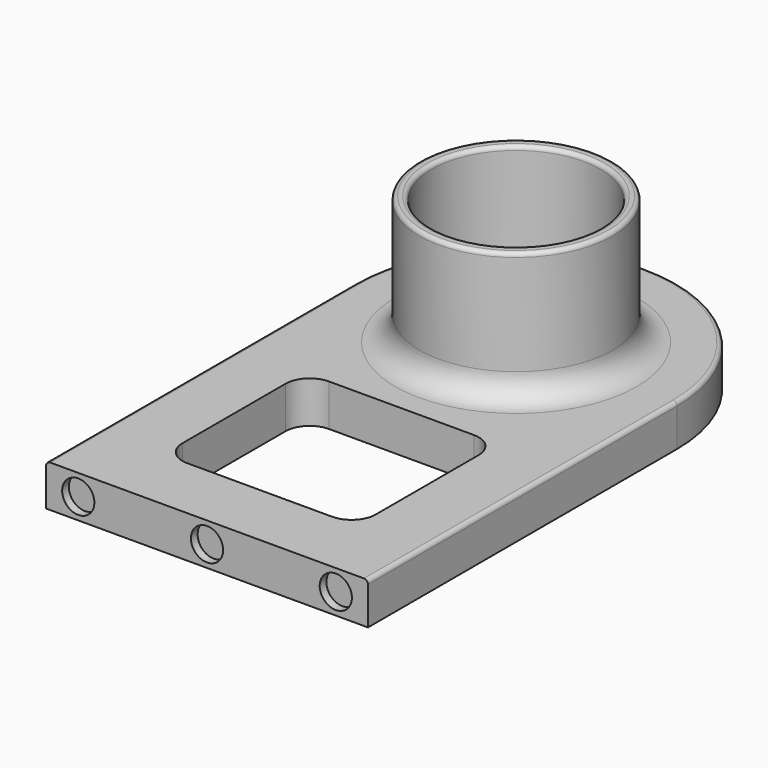
from build123d import *

# Parameters (mm, degrees)
F1_DEPTH = 8.255
F2_R     = 19.05
F2_R_2   = 16.66875
F3_DEPTH = 25.4
F4_R     = 3.175
F5_DEPTH = 1.651
F6_W     = 38.1
F6_H     = 34.925
F6_R     = 11.1125
F7_DEPTH = 8.255
F8_R     = 4.7625
F9_R     = 0.79375


with BuildPart() as f1:
    # F0 (on Top) → F1 (new body)
    with BuildSketch(Plane.XY):
        with BuildLine():
            ThreePointArc((31.75, 0), (22.45064, 22.45064), (0, 31.75))
            ThreePointArc((0, 31.75), (-22.45064, 22.45064), (-31.75, 0))
            Line((-31.75, 0), (-31.75, -76.2))
            Line((-31.75, -76.2), (0, -76.2))
            Line((0, -76.2), (31.75, -76.2))
            Line((31.75, -76.2), (31.75, 0))
        make_face()
    extrude(amount=-F1_DEPTH)

    # F2 (on face) → F3 (join)
    with BuildSketch(Plane.XY):
        Circle(F2_R)
        Circle(F2_R_2, mode=Mode.SUBTRACT)
    extrude(amount=F3_DEPTH)

    # F4 (on face) → F5 (cut)
    with BuildSketch(Plane.XZ.offset(76.2)):
        with Locations((-25.4, -4.1275)):
            Circle(F4_R)
        with Locations((0, -4.1275)):
            Circle(F4_R)
        with Locations((25.4, -4.1275)):
            Circle(F4_R)
    extrude(amount=-F5_DEPTH, mode=Mode.SUBTRACT)

    # F6 (on face) → F7 (cut, through all)
    with BuildSketch(Plane.XY):
        with Locations((0, -45.72)):
            Rectangle(F6_W, F6_H)
        Circle(F6_R)
    extrude(amount=-F7_DEPTH, mode=Mode.SUBTRACT)

    # F8
    f8_edges = [f1.edges().sort_by_distance(p)[0] for p in [
        (-19.05, 0, 0),
        (-16.66875, 0, 0),
        (-19.05, -28.2575, -4.1275),
        (19.05, -28.2575, -4.1275),
        (-19.05, -63.1825, -4.1275),
        (19.05, -63.1825, -4.1275),
    ]]
    fillet(f8_edges, radius=F8_R)

    # F9
    f9_edges = [f1.edges().sort_by_distance(p)[0] for p in [
        (-19.05, 0, 25.4),
        (-16.66875, 0, 25.4),
        (-31.75, -38.1, 0),
    ]]
    fillet(f9_edges, radius=F9_R)


solid = f1.part
